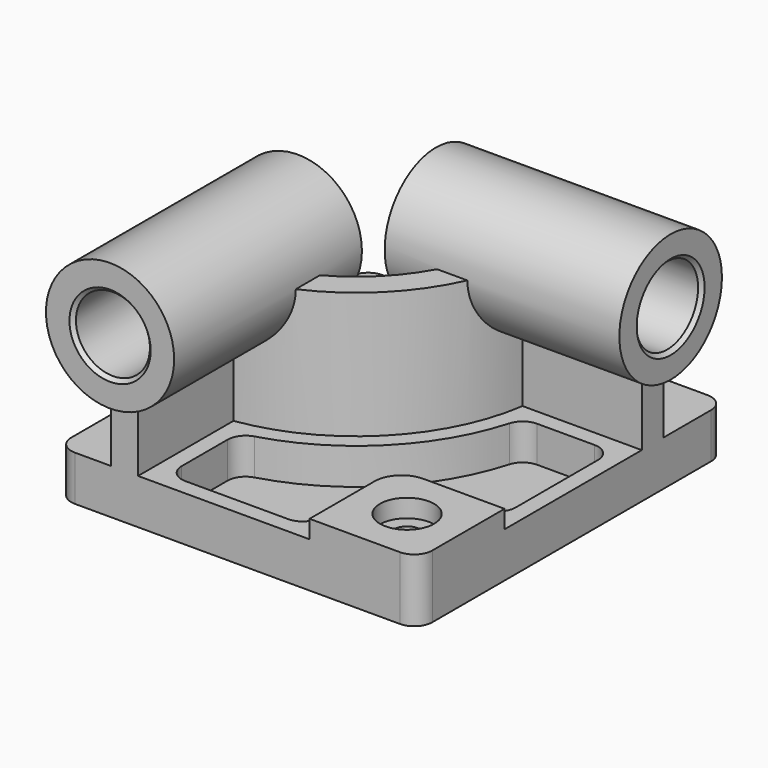
from build123d import *

# Parameters (mm, degrees)
F1_DEPTH  = 25
F3_DEPTH  = 70
F5_DEPTH  = 10
F6_R      = 7.44
F7_DEPTH  = 35.001
F8_R      = 15
F9_DEPTH  = 10
F11_DEPTH = 20
F13_R     = 35.5
F14_DEPTH = 130
F15_R     = 21.5
F16_DEPTH = 210.001
F18_R     = 35.5
F19_DEPTH = 130
F20_R     = 20.5
F21_DEPTH = 223.001
F22_SIZE  = 2


with BuildPart() as f1:
    # F0 (on Top) → F1 (new body)
    with BuildSketch(Plane.XY):
        with BuildLine():
            Line((90, 106.5), (-90, 106.5))
            ThreePointArc((-90, 106.5), (-97.0710678119, 103.5710678119), (-100, 96.5))
            Line((-100, 96.5), (-100, -96.5))
            ThreePointArc((-100, -96.5), (-97.0710678119, -103.5710678119), (-90, -106.5))
            Line((-90, -106.5), (90, -106.5))
            ThreePointArc((90, -106.5), (97.0710678119, -103.5710678119), (100, -96.5))
            Line((100, -96.5), (100, 96.5))
            ThreePointArc((100, 96.5), (97.0710678119, 103.5710678119), (90, 106.5))
        make_face()
    extrude(amount=-F1_DEPTH)

    # F2 (on face) → F3 (join)
    with BuildSketch(Plane.XY):
        with BuildLine():
            Line((-70, -26.5), (-70, -106.5))
            Line((-70, -106.5), (-55, -106.5))
            Line((-55, -106.5), (-55, -40.4230484541))
            ThreePointArc((-55, -40.4230484541), (4.2462120246, -10.7462120246), (33.9230484541, 48.5))
            Line((33.9230484541, 48.5), (100, 48.5))
            Line((100, 48.5), (100, 63.5))
            Line((100, 63.5), (20, 63.5))
            ThreePointArc((20, 63.5), (-6.3603896932, -0.1396103068), (-70, -26.5))
        make_face()
    extrude(amount=F3_DEPTH)

    # F4 (on face) → F5 (join)
    with BuildSketch(Plane.XY):
        with BuildLine():
            Line((100, -96.5), (100, -46.5))
            Line((100, -46.5), (55, -46.5))
            ThreePointArc((55, -46.5), (44.3933982822, -50.8933982822), (40, -61.5))
            Line((40, -61.5), (40, -106.5))
            Line((40, -106.5), (90, -106.5))
            ThreePointArc((90, -106.5), (97.0710678119, -103.5710678119), (100, -96.5))
        make_face()
    extrude(amount=F5_DEPTH)

    # F6 (on face) → F7 (cut, through all)
    with BuildSketch(Plane.XY.offset(10)):
        with Locations((70, -76.5)):
            Circle(F6_R)
    extrude(amount=-F7_DEPTH, mode=Mode.SUBTRACT)

    # F8 (on face) → F9 (cut)
    with BuildSketch(Plane.XY.offset(10)):
        with Locations((70, -76.5)):
            Circle(F8_R)
    extrude(amount=-F9_DEPTH, mode=Mode.SUBTRACT)

    # F10 (on face) → F11 (cut)
    with BuildSketch(Plane.XY):
        with BuildLine():
            ThreePointArc((91, 29.5), (88.0710678119, 36.5710678119), (81, 39.5))
            Line((81, 39.5), (49.2476414861, 39.5))
            ThreePointArc((49.2476414861, 39.5), (43.2234965193, 37.481834214), (39.630896205, 32.2419354839))
            ThreePointArc((39.630896205, 32.2419354839), (10.6101730553, -17.1101730553), (-38.7419354839, -46.130896205))
            ThreePointArc((-38.7419354839, -46.130896205), (-43.981834214, -49.7234965193), (-46, -55.7476414861))
            Line((-46, -55.7476414861), (-46, -87.5))
            ThreePointArc((-46, -87.5), (-43.0710678119, -94.5710678119), (-36, -97.5))
            Line((-36, -97.5), (21, -97.5))
            ThreePointArc((21, -97.5), (28.0710678119, -94.5710678119), (31, -87.5))
            Line((31, -87.5), (31, -52.5))
            ThreePointArc((31, -52.5), (35.3933982822, -41.8933982822), (46, -37.5))
            Line((46, -37.5), (81, -37.5))
            ThreePointArc((81, -37.5), (88.0710678119, -34.5710678119), (91, -27.5))
            Line((91, -27.5), (91, 29.5))
        make_face()
    extrude(amount=-F11_DEPTH, mode=Mode.SUBTRACT)

    # F13 (on offset) → F14 (join)
    with BuildSketch(Plane.YZ.offset(110)):
        with Locations((56, 70)):
            Circle(F13_R)
    extrude(amount=-F14_DEPTH)

    # F15 (on face) → F16 (cut, through all)
    with BuildSketch(Plane.YZ.offset(110)):
        with Locations((56, 70)):
            Circle(F15_R)
    extrude(amount=-F16_DEPTH, mode=Mode.SUBTRACT)

    # F18 (on offset) → F19 (join)
    with BuildSketch(Plane.XZ.offset(116.5)):
        with Locations((-62.5, 70)):
            Circle(F18_R)
    extrude(amount=-F19_DEPTH)

    # F20 (on face) → F21 (cut, through all)
    with BuildSketch(Plane.XZ.offset(116.5)):
        with Locations((-62.5, 70)):
            Circle(F20_R)
    extrude(amount=-F21_DEPTH, mode=Mode.SUBTRACT)

    # F22
    f22_edges = [f1.edges().sort_by_distance(p)[0] for p in [
        (-83, -116.5, 70),
        (-83, 13.5, 70),
        (-20, 34.5, 70),
        (110, 34.5, 70),
    ]]
    chamfer(f22_edges, length=F22_SIZE)


solid = f1.part
